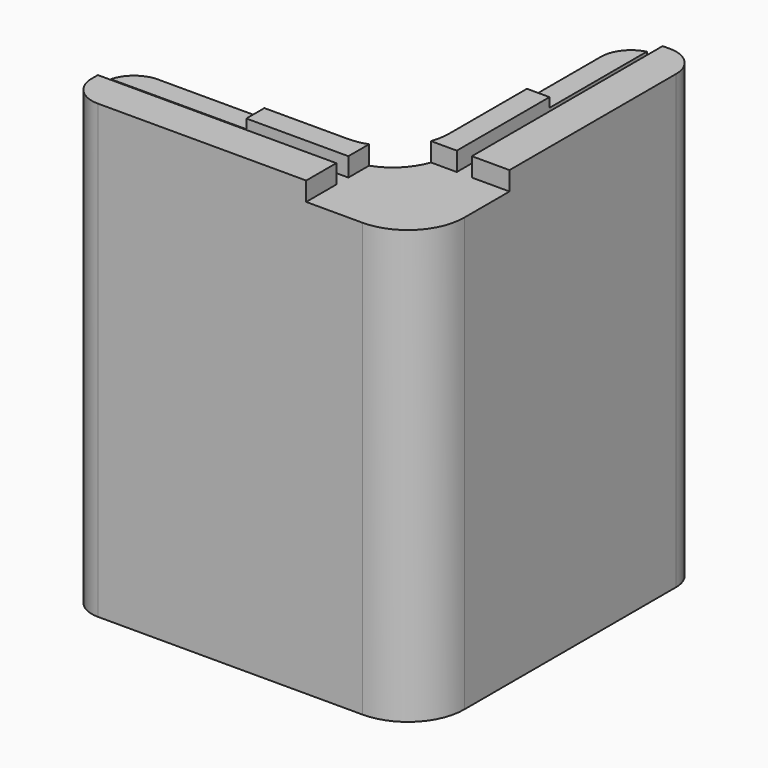
from build123d import *

# Parameters (mm, degrees)
F1_DEPTH  = 76.2
F2_R      = 9.525
F4_W      = 19.05
F4_H      = 19.05
F5_DEPTH  = 3.175
F6_W      = 2.54
F6_H      = 44.45
F6_W_2    = 44.45
F6_H_2    = 2.54
F7_DEPTH  = 3.175
F8_R      = 5.08
F9_W      = 24.864539
F9_H      = 7.45066
F9_W_2    = 9.066464
F9_H_2    = 23.017317
F10_DEPTH = 1.5875


with BuildPart() as f1:
    # F0 (on Top) → F1 (new body)
    with BuildSketch(Plane.XY):
        Polygon((-12.7, 0), (0, 0), (0, 59.266667), (-12.7, 59.266667), (-12.7, 12.7), (-59.266667, 12.7), (-59.266667, 0), align=None)
    extrude(amount=F1_DEPTH)

    # F2
    f2_edges = [f1.edges().sort_by_distance(p)[0] for p in [
        (-12.7, 12.7, 38.1),
        (0, 0, 38.1),
    ]]
    fillet(f2_edges, radius=F2_R)

    # F4 (on offset) → F5 (cut)
    with BuildSketch(Plane.XY.offset(76.2)):
        with Locations((-9.525, 9.525)):
            Rectangle(F4_W, F4_H)
    extrude(amount=-F5_DEPTH, mode=Mode.SUBTRACT)

    # F6 (on offset) → F7 (cut)
    with BuildSketch(Plane.XY.offset(76.2)):
        with Locations((-7.62, 40.052507)):
            Rectangle(F6_W, F6_H)
        with Locations((-39.902898, 7.62)):
            Rectangle(F6_W_2, F6_H_2)
    extrude(amount=-F7_DEPTH, mode=Mode.SUBTRACT)

    # F8
    f8_edges = [f1.edges().sort_by_distance(p)[0] for p in [
        (-59.266667, 0, 38.1),
        (-59.266667, 12.7, 38.1),
        (-12.7, 59.266667, 38.1),
        (0, 59.266667, 38.1),
    ]]
    fillet(f8_edges, radius=F8_R)

    # F9 (on offset) → F10 (cut)
    with BuildSketch(Plane.XY.offset(76.2)):
        with Locations((-48.689407, 11.571373)):
            Rectangle(F9_W, F9_H)
        with Locations((-11.794715, 50.10781)):
            Rectangle(F9_W_2, F9_H_2)
    extrude(amount=-F10_DEPTH, mode=Mode.SUBTRACT)


solid = f1.part
